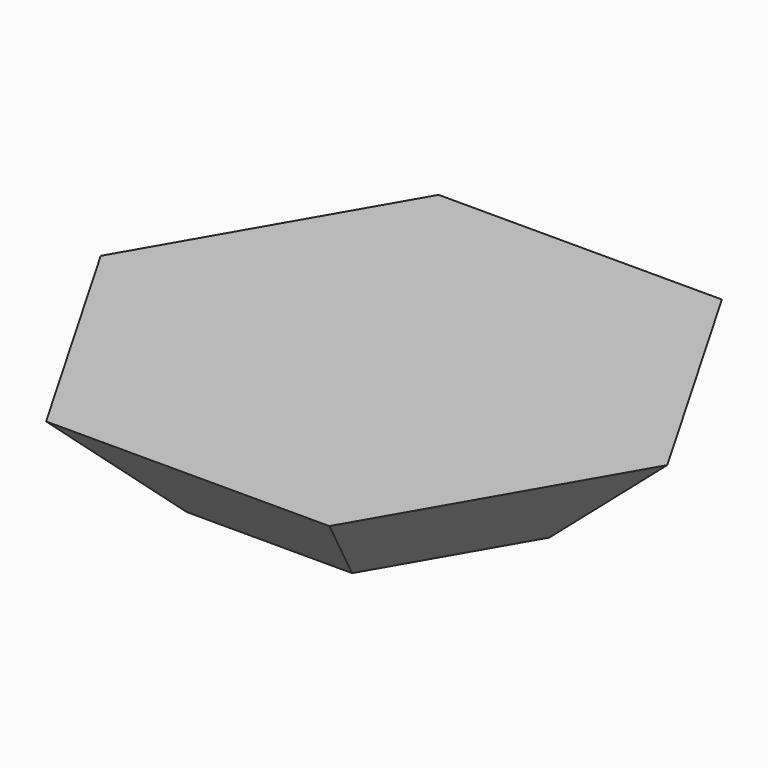
from build123d import *

# Parameters (mm, degrees)
F1_DEPTH = 21.59
F1_TAPER = -45


with BuildPart() as f1:
    # F0 (on Top) → F1 (new body)
    with BuildSketch(Plane.XY):
        Polygon((0, 0), (34.9558219314, 0), (17.4779109657, 30.2726298027), (-17.4779109657, 30.2726298027), (-34.9558219314, 0), align=None)
        Polygon((17.4779109657, -30.2726298027), (34.9558219314, 0), (0, 0), (-34.9558219314, 0), (-17.4779109657, -30.2726298027), align=None)
    extrude(amount=F1_DEPTH, taper=F1_TAPER)


solid = f1.part
